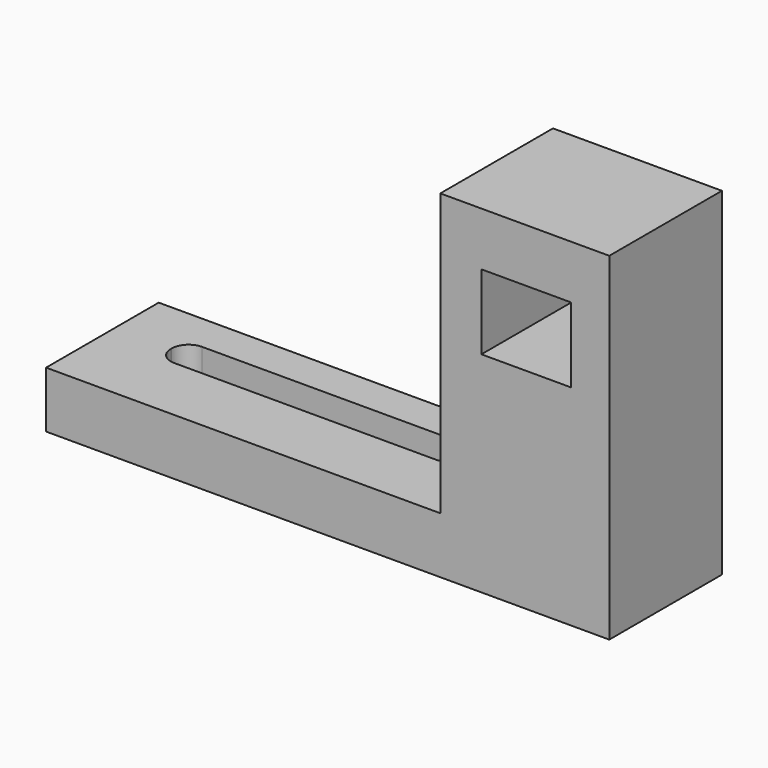
from build123d import *

# Parameters (mm, degrees)
F0_W     = 100
F0_H     = 25
F1_DEPTH = 10
F2_W     = 30
F2_H     = 25
F3_DEPTH = 50
F4_W     = 15.893344
F4_H     = 13.28928
F5_DEPTH = 25.001
F7_DEPTH = 25


with BuildPart() as f1:
    # F0 (on Top) → F1 (new body)
    with BuildSketch(Plane.XY):
        with Locations((14.104442, 41.370601)):
            Rectangle(F0_W, F0_H)
    extrude(amount=F1_DEPTH)

    # F2 (on face) → F3 (join)
    with BuildSketch(Plane.XY.offset(10)):
        with Locations((49.104442, 41.370601)):
            Rectangle(F2_W, F2_H)
    extrude(amount=F3_DEPTH)

    # F4 (on face) → F5 (cut, through all)
    with BuildSketch(Plane.XZ.offset(-28.870601)):
        with Locations((49.347391, 43.861993)):
            Rectangle(F4_W, F4_H)
    extrude(amount=-F5_DEPTH, mode=Mode.SUBTRACT)

    # F6 (on face) → F7 (cut)
    with BuildSketch(Plane.XY.offset(10)):
        with BuildLine():
            Line((-22.895558, 41.051087), (24.104442, 41.051087))
            Line((24.104442, 41.051087), (24.104442, 47.251087))
            Line((24.104442, 47.251087), (-22.895558, 47.251087))
            ThreePointArc((-22.895558, 47.251087), (-25.016878, 46.372407), (-25.895558, 44.251087))
            Line((-25.895558, 44.251087), (-25.895558, 44.051087))
            ThreePointArc((-25.895558, 44.051087), (-25.016878, 41.929766), (-22.895558, 41.051087))
        make_face()
    extrude(amount=-F7_DEPTH, mode=Mode.SUBTRACT)


solid = f1.part
